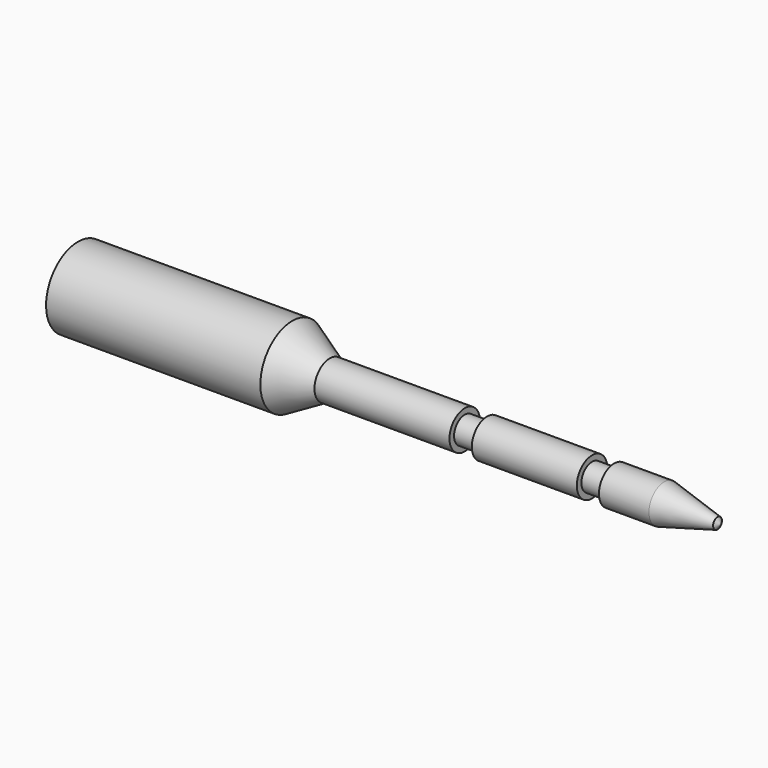
from build123d import *


with BuildPart() as f1:
    # F0 (on Front) → F1 (revolve)
    with BuildSketch(Plane.XZ):
        Polygon((30, 5.581236), (0, 5.581236), (0, 0), (90, 0), (89.532924, 0.769311), (82.070542, 2.667428), (75.070542, 2.667428), (75.070542, 1.867428), (71.970542, 1.867428), (71.970542, 2.667428), (57.270542, 2.667428), (57.270542, 1.867428), (54.144857, 1.867428), (54.144857, 2.667428), (35.244857, 2.667428), align=None)
    revolve(axis=Axis((45, 0, 0), (-1, 0, 0)))


solid = f1.part
